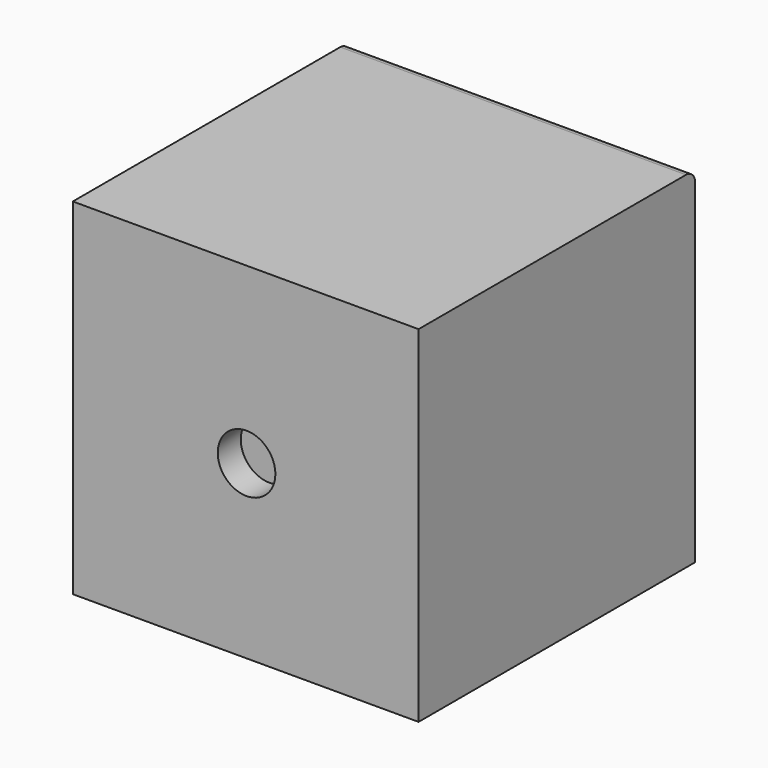
from build123d import *

# Parameters (mm, degrees)
F0_W     = 60
F0_H     = 60
F2_W     = 60
F2_H     = 60
F5_R     = 5
F6_DEPTH = 5
F7_R     = 7.5
F8_DEPTH = 5
F9_R     = 2


with BuildPart() as f3:
    # F0 (on Front) → F3 section 0
    with BuildSketch(Plane.XZ):
        with Locations((30, -30)):
            Rectangle(F0_W, F0_H)
    # F2 (on offset) → F3 section 1
    with BuildSketch(Plane.XZ.offset(60)):
        with Locations((30, -30)):
            Rectangle(F2_W, F2_H)
    loft()

    # F5 (on offset) → F6 (cut)
    with BuildSketch(Plane.XZ.offset(60)):
        with Locations((30.1493108273, -30.2097292106)):
            Circle(F5_R)
    extrude(amount=-F6_DEPTH, mode=Mode.SUBTRACT)

    # F7 (on Front) → F8 (cut)
    with BuildSketch(Plane.XZ):
        with Locations((47.3982296399, -12.8745916897)):
            Circle(F7_R)
        with Locations((12.4750004448, -12.5)):
            Circle(F7_R)
        with Locations((47.3982296399, -30)):
            Circle(F7_R)
        with Locations((12.2961504385, -30)):
            Circle(F7_R)
        with Locations((47.5, -47.5)):
            Circle(F7_R)
        with Locations((12.2961504385, -47.5)):
            Circle(F7_R)
    extrude(amount=F8_DEPTH, mode=Mode.SUBTRACT)

    # F9
    f9_edges = [f3.edges().sort_by_distance(p)[0] for p in [
        (30, 0, 0),
    ]]
    fillet(f9_edges, radius=F9_R)


solid = f3.part
